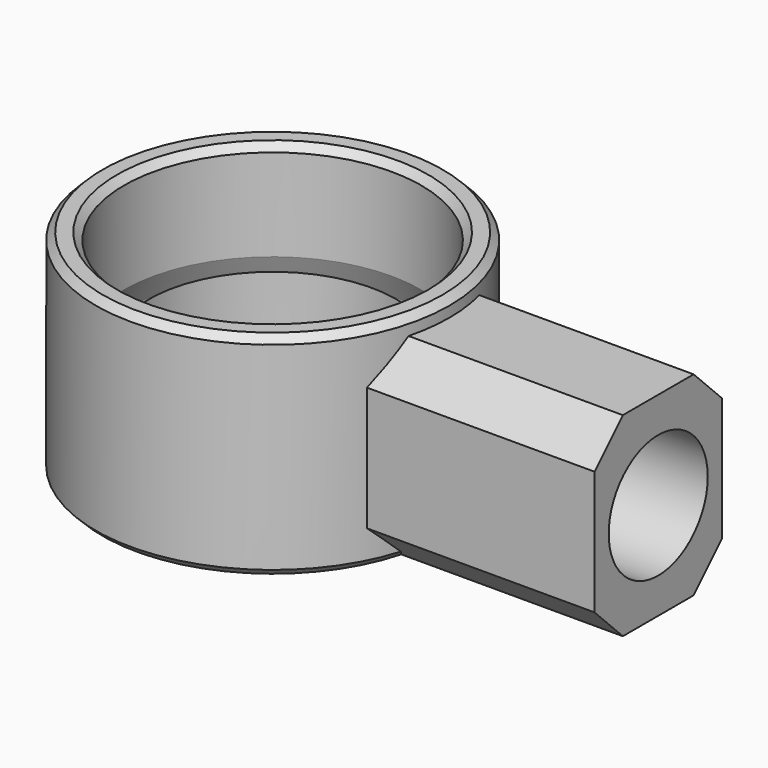
from build123d import *

# Parameters (mm, degrees)
F5_DEPTH = 55
F6_R     = 17.5
F7_DEPTH = 70.5
F8_SIZE  = 10
F9_SIZE  = 2


with BuildPart() as f1:
    # F0 (on Front) → F1 (revolve)
    with BuildSketch(Plane.XZ):
        Polygon((35, 32), (35, 0), (50, 0), (50, 60), (42, 60), (42, 32), align=None)
    revolve(axis=Axis((0, 0, 18.633036), (0, 0, 1)))

    # F2 (on Front) → F3 (revolve, cut)
    with BuildSketch(Plane.XZ):
        Polygon((34.955181, 31.998791), (40, 25), (40, 10), (45, 10), (45, 25), (39.898187, 36.992304), align=None)
    revolve(axis=Axis((0, 0, 12.552274), (0, 0, 1)), mode=Mode.SUBTRACT)

    # F4 (on Top) → F5 (join)
    with BuildSketch(Plane.XY):
        with BuildLine():
            ThreePointArc((42.965102, 22.5), (47.095952, 11.585391), (48.5, 0))
            ThreePointArc((48.5, 0), (47.095952, -11.585391), (42.965102, -22.5))
            Line((42.965102, -22.5), (108.965102, -22.5))
            Line((108.965102, -22.5), (108.965102, 22.5))
            Line((108.965102, 22.5), (42.965102, 22.5))
        make_face()
    extrude(amount=F5_DEPTH)

    # F6 (on face) → F7 (cut)
    with BuildSketch(Plane.YZ.offset(108.965102)):
        with Locations((0, 27.5)):
            Circle(F6_R)
    extrude(amount=-F7_DEPTH, mode=Mode.SUBTRACT)

    # F8
    f8_edges = [f1.edges().sort_by_distance(p)[0] for p in [
        (76.808265, -22.5, 55),
        (76.808265, -22.5, 0),
        (76.808265, 22.5, 55),
        (76.808265, 22.5, 0),
    ]]
    chamfer(f8_edges, length=F8_SIZE)

    # F9
    f9_edges = [f1.edges().sort_by_distance(p)[0] for p in [
        (-50, 0, 60),
        (-42, 0, 60),
        (-35, 0, 0),
        (-50, 0, 0),
    ]]
    chamfer(f9_edges, length=F9_SIZE)


solid = f1.part
